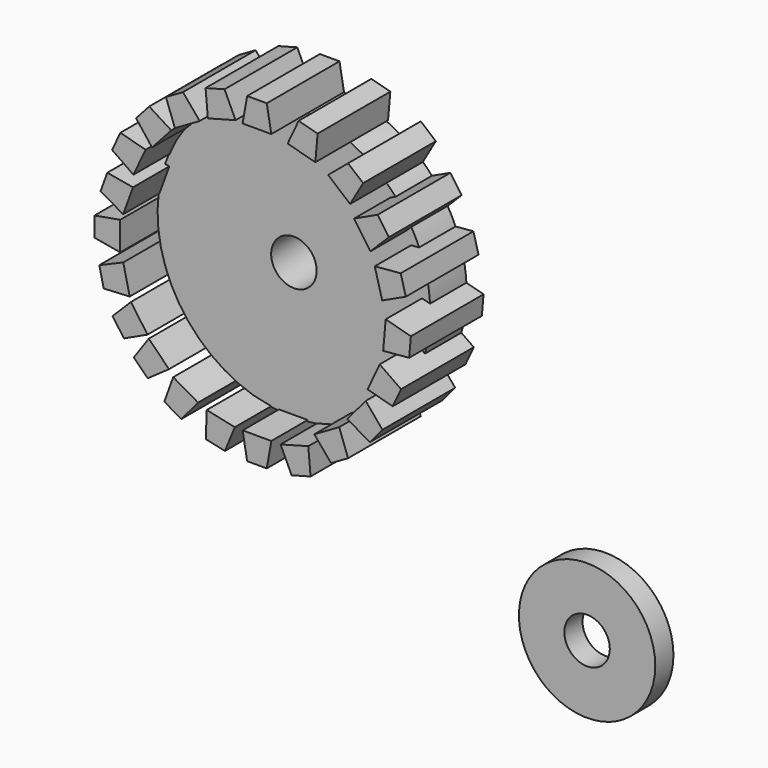
from build123d import *

# Parameters (mm, degrees)
F1_DEPTH = 12.7
F2_R     = 19.05
F2_R_2   = 6.35
F3_DEPTH = 6.35
F5_DEPTH = 25.4


with BuildPart() as f1:
    # F0 (on Front) → F1 (new body)
    with BuildSketch(Plane.XZ):
        with BuildLine():
            ThreePointArc((-47.0924196601, 32.9995155334), (-40.7424196601, 39.3495155334), (-34.3924196601, 32.9995155334))
            Line((-34.3924196601, 32.9995155334), (-2.6424196601, 32.9995155334))
            ThreePointArc((-2.6424196601, 32.9995155334), (-40.7424196601, 71.0995155334), (-78.8424196601, 32.9995155334))
            Line((-78.8424196601, 32.9995155334), (-47.0924196601, 32.9995155334))
        make_face()
        with BuildLine():
            Line((-2.6424196601, 32.9995155334), (-34.3924196601, 32.9995155334))
            ThreePointArc((-34.3924196601, 32.9995155334), (-40.7424196601, 26.6495155334), (-47.0924196601, 32.9995155334))
            Line((-47.0924196601, 32.9995155334), (-78.8424196601, 32.9995155334))
            ThreePointArc((-78.8424196601, 32.9995155334), (-40.7424196601, -5.1004844666), (-2.6424196601, 32.9995155334))
        make_face()
    extrude(amount=F1_DEPTH)

    # F4 (on Front) → F5, piece 8 (join)
    with BuildSketch(Plane.XZ):
        Polygon((-38.1659068628, 78.1463310122), (-43.650681225, 78.1463310122), (-44.9148942967, 70.9766224027), (-36.9016937912, 70.9766224027), align=None)
        Polygon((-23.9616667882, 75.3021488025), (-29.2595519959, 76.7217128655), (-32.3363451878, 70.1235085726), (-24.5961878683, 68.0495396695), align=None)
        Polygon((-11.2410145817, 67.2470508706), (-15.4425955036, 70.7725958725), (-21.0196387614, 66.0929009318), (-14.8811710425, 60.9421149329), align=None)
        Polygon((-4.0393144459, 56.2968192684), (-7.1852517787, 60.7896833996), (-13.7834560717, 57.7128902078), (-9.187273082, 51.1488606324), align=None)
        Polygon((0.6811337856, 43.1964908686), (-0.7384302774, 48.4943760763), (-7.9910394104, 47.8598549962), (-5.9170705074, 40.1196976767), align=None)
        Polygon((1.6159048783, 28.4595568903), (2.0939344616, 33.9234600301), (-4.9383078128, 35.8077436686), (-5.6367042547, 27.8250358102), align=None)
        Polygon((-2.9652025274, 15.0399360099), (-0.6472367204, 20.0108297245), (-6.6109199333, 24.1866456656), (-9.9974448019, 16.9242196483), align=None)
        Polygon((-9.3617214584, 4.1410547296), (-5.8361764565, 8.3426356515), (-10.5158713972, 13.9196789093), (-15.6666573961, 7.7812111904), align=None)
        Polygon((-20.193195102, -4.5277704628), (-15.4432411704, -1.7853832818), (-17.9332548393, 5.0558730477), (-24.8728900427, 1.049272795), align=None)
        Polygon((-31.2282322947, -11.1141224071), (-25.9303470869, -9.694558344), (-26.564868167, -2.4419492111), (-34.3050254866, -4.5159181141), align=None)
        Polygon((-43.650681225, -11.6856267237), (-38.1659068628, -11.6856267237), (-36.9016937912, -4.5159181141), (-44.9148942967, -4.5159181141), align=None)
        Polygon((-55.2098710533, -10.031535999), (-49.8484395557, -11.1881699516), (-47.1007020564, -4.4462937386), (-54.93369987, -2.756463098), align=None)
        Polygon((-82.7261356414, 46.5736751104), (-84.6054236202, 41.4209062919), (-78.3028798417, 37.7766096304), (-75.5572588941, 45.3047533561), align=None)
        Polygon((-71.0174292326, 66.6698515415), (-74.6968947013, 62.6023850489), (-70.2279923235, 56.855049338), (-64.8523300615, 62.7975772165), align=None)
        Polygon((-79.0767520666, 57.589199394), (-81.3947178736, 52.6183056794), (-75.4310346608, 48.4424897383), (-72.0445097921, 55.7049157556), align=None)
    extrude(amount=F5_DEPTH)


with BuildPart() as f3:
    # F2 (on Front) → F3 (new body)
    with BuildSketch(Plane.XZ):
        with Locations((36.1028239131, -37.6083850861)):
            Circle(F2_R)
        with Locations((36.1028239131, -37.6083850861)):
            Circle(F2_R_2, mode=Mode.SUBTRACT)
    extrude(amount=F3_DEPTH)


with BuildPart() as f5:
    # F4 (on Front) → F5 (new body)
    with BuildSketch(Plane.XZ):
        Polygon((-66.7979119475, -4.5715123415), (-62.0479580159, -7.3138995226), (-57.3682630752, -1.7368562648), (-64.3078982786, 2.269743988), align=None)
    extrude(amount=F5_DEPTH)


with BuildPart() as f5b:
    # F4 (on Front) → F5, piece 2 (new body)
    with BuildSketch(Plane.XZ):
        Polygon((-75.3225982189, 3.5497164354), (-71.4442770742, -0.3286047094), (-65.4805938613, 3.8472112317), (-71.1467822778, 9.5133996482), align=None)
    extrude(amount=F5_DEPTH)


with BuildPart() as f5c:
    # F4 (on Front) → F5, piece 3 (new body)
    with BuildSketch(Plane.XZ):
        Polygon((-81.2465018022, 11.8023036048), (-78.1005644693, 7.3094394736), (-71.5023601764, 10.3862326654), (-76.0985431661, 16.9502622408), align=None)
    extrude(amount=F5_DEPTH)


with BuildPart() as f5d:
    # F4 (on Front) → F5, piece 4 (new body)
    with BuildSketch(Plane.XZ):
        Polygon((-84.9664509296, 23.1028068811), (-83.7330315748, 17.7585177329), (-76.4626685378, 18.1390141818), (-78.2646818834, 25.9469671943), align=None)
    extrude(amount=F5_DEPTH)


with BuildPart() as f5e:
    # F4 (on Front) → F5, piece 5 (new body)
    with BuildSketch(Plane.XZ):
        Polygon((-86.287654041, 34.8960010465), (-86.287654041, 29.4112266843), (-79.1179454314, 28.1470136126), (-79.1179454314, 36.1602141181), align=None)
    extrude(amount=F5_DEPTH)


with BuildPart() as f5f:
    # F4 (on Front) → F5, piece 6 (new body)
    with BuildSketch(Plane.XZ):
        Polygon((-49.9666237613, 77.7480527759), (-55.2645089691, 76.3284887128), (-54.6299878889, 69.0758795799), (-46.8898305694, 71.1498484829), align=None)
    extrude(amount=F5_DEPTH)


with BuildPart() as f5g:
    # F4 (on Front) → F5, piece 7 (new body)
    with BuildSketch(Plane.XZ):
        Polygon((-61.5880899131, 73.2670277357), (-66.3380438448, 70.5246405546), (-63.8480301759, 63.6833842252), (-56.9083949725, 67.6899844779), align=None)
    extrude(amount=F5_DEPTH)


solid = Compound([f1.part, f3.part, f5.part, f5b.part, f5c.part, f5d.part, f5e.part, f5f.part, f5g.part])
